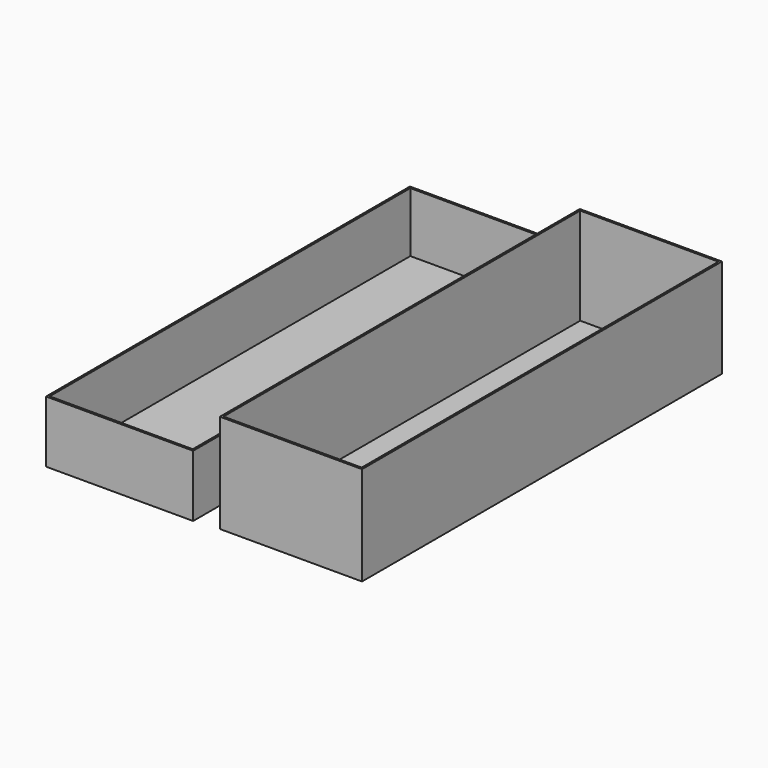
from build123d import *

# Parameters (mm, degrees)
F0_W     = 182
F0_H     = 57.5
F1_DEPTH = 40
F2_T     = -0.8
F3_W     = 184
F3_H     = 59.5
F4_DEPTH = 25
F5_T     = -0.8
F6_ANGLE = 90


with BuildPart() as f1:
    # F0 (on Top) → F1 (new body)
    with BuildSketch(Plane.XY):
        Rectangle(F0_W, F0_H)
    extrude(amount=F1_DEPTH)

    # F2
    f2_openings = [f1.faces().sort_by_distance(p)[0] for p in [
        (0, 0, 40),
    ]]
    offset(amount=F2_T, openings=f2_openings)


with BuildPart() as f4:
    # F3 (on Top) → F4 (new body)
    with BuildSketch(Plane.XY):
        with Locations((0, -68.524427712)):
            Rectangle(F3_W, F3_H)
    extrude(amount=F4_DEPTH)

    # F5
    f5_openings = [f4.faces().sort_by_distance(p)[0] for p in [
        (0, -68.524428, 25),
    ]]
    offset(amount=F5_T, openings=f5_openings)


with BuildPart() as f1_1:
    # F6: moved
    add(f1.part.rotate(Axis((-91, -28.75, 20), (0, 0, -1)), F6_ANGLE))


with BuildPart() as f4_1:
    # F6: moved
    add(f4.part.rotate(Axis((-91, -28.75, 20), (0, 0, -1)), F6_ANGLE))


solid = Compound([f1_1.part, f4_1.part])
